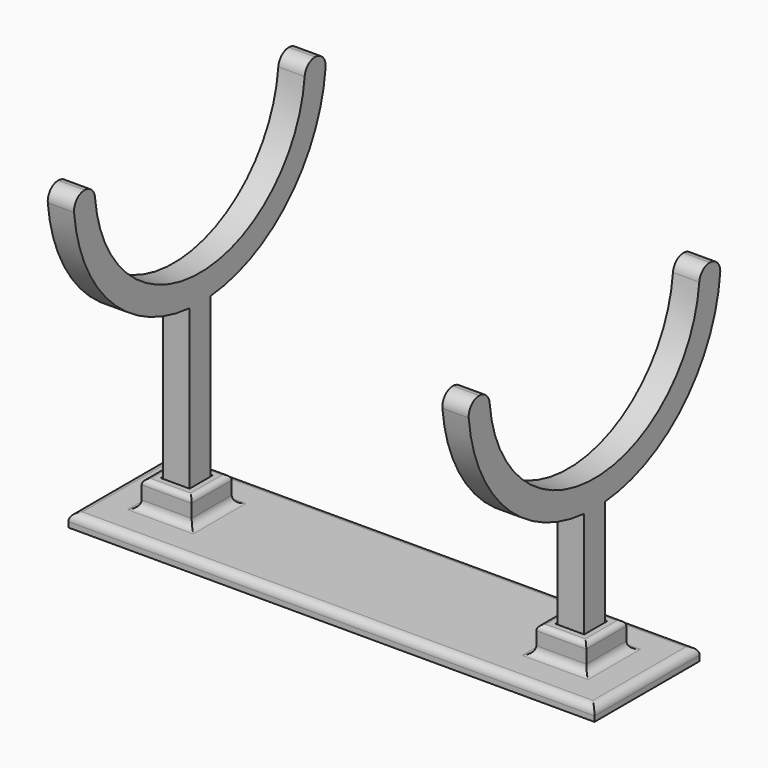
from build123d import *

# Parameters (mm, degrees)
PAD_DEPTH           = 10
FILLET_R            = 4.9999
SKETCH002_W         = 19
SKETCH002_H         = 19
SKETCH002_W_2       = 11
SKETCH002_H_2       = 11
PAD001_DEPTH        = 10
SKETCH001_W         = 200
SKETCH001_H         = 50
PAD002_DEPTH        = 5
LINEARPATTERN_COUNT = 2
LINEARPATTERN_PITCH = 150
FILLET001_R         = 3
FILLET002_R         = 2
PAD003_DEPTH        = 10
FILLET003_R         = 4.9999


with BuildPart() as stand_left:
    # Sketch → Pad (new body)
    with BuildSketch(Plane.YZ):
        with BuildLine():
            ThreePointArc((-45, 129.791304), (5, 79.791304), (55, 129.791304))
            Line((55, 129.791304), (65, 129.791304))
            ThreePointArc((10, 70), (49.158804, 89.171112), (65, 129.791304))
            Line((10, 70), (10, 0))
            Line((0, 0), (10, 0))
            Line((0, 70), (0, 0))
            ThreePointArc((-55, 129.791304), (-39.158804, 89.171112), (0, 70))
            Line((-55, 129.791304), (-45, 129.791304))
        make_face()
    extrude(amount=PAD_DEPTH)

    # Fillet
    fillet_edges = [stand_left.edges().sort_by_distance(p)[0] for p in [
        (5, 55, 129.791304),
        (5, 65, 129.791304),
        (5, -55, 129.791304),
        (5, -45, 129.791304),
    ]]
    fillet(fillet_edges, radius=FILLET_R)


with BuildPart() as base:
    # Sketch002 → Pad001 (new body)
    with BuildSketch(Plane.XY):
        with Locations((5, 5)):
            Rectangle(SKETCH002_W, SKETCH002_H)
        with Locations((5, 5)):
            Rectangle(SKETCH002_W_2, SKETCH002_H_2, mode=Mode.SUBTRACT)
    pad001 = extrude(amount=PAD001_DEPTH)

    # Sketch001 → Pad002 (join)
    with BuildSketch(Plane.XY):
        with Locations((80, 5)):
            Rectangle(SKETCH001_W, SKETCH001_H)
    extrude(amount=-PAD002_DEPTH)

    # LinearPattern: Pad001 ×2
    with Locations(*[(i * LINEARPATTERN_PITCH, 0, 0) for i in range(1, LINEARPATTERN_COUNT)]):
        add(pad001)

    # Fillet001
    fillet001_edges = [base.edges().sort_by_distance(p)[0] for p in [
        (80, -20, 0),
        (-20, 5, 0),
        (180, 5, 0),
        (80, 30, 0),
        (-4.5, 5, 0),
        (5, -4.5, 0),
        (5, 14.5, 0),
        (14.5, 5, 0),
        (145.5, 5, 0),
        (155, -4.5, 0),
        (164.5, 5, 0),
        (155, 14.5, 0),
    ]]
    fillet(fillet001_edges, radius=FILLET001_R)

    # Fillet002
    fillet002_edges = [base.edges().sort_by_distance(p)[0] for p in [
        (-4.5, 5, 10),
        (5, 14.5, 10),
        (14.5, 5, 10),
        (5, -4.5, 10),
        (155, 14.5, 10),
        (164.5, 5, 10),
        (155, -4.5, 10),
        (145.5, 5, 10),
    ]]
    fillet(fillet002_edges, radius=FILLET002_R)


with BuildPart() as stand_right:
    # Sketch003 → Pad003 (new body)
    with BuildSketch(Plane.YZ.offset(150)):
        with BuildLine():
            ThreePointArc((-45, 109.791304), (5, 59.791304), (55, 109.791304))
            Line((55, 109.791304), (65, 109.791304))
            ThreePointArc((10, 50), (49.158804, 69.171112), (65, 109.791304))
            Line((10, 50), (10, 0))
            Line((0, 0), (10, 0))
            Line((0, 50), (0, 0))
            ThreePointArc((-55, 109.791304), (-39.158804, 69.171112), (0, 50))
            Line((-55, 109.791304), (-45, 109.791304))
        make_face()
    extrude(amount=PAD003_DEPTH)

    # Fillet003
    fillet003_edges = [stand_right.edges().sort_by_distance(p)[0] for p in [
        (155, 55, 109.791304),
        (155, 65, 109.791304),
        (155, -55, 109.791304),
        (155, -45, 109.791304),
    ]]
    fillet(fillet003_edges, radius=FILLET003_R)


solid = Compound([stand_left.part, base.part, stand_right.part])
